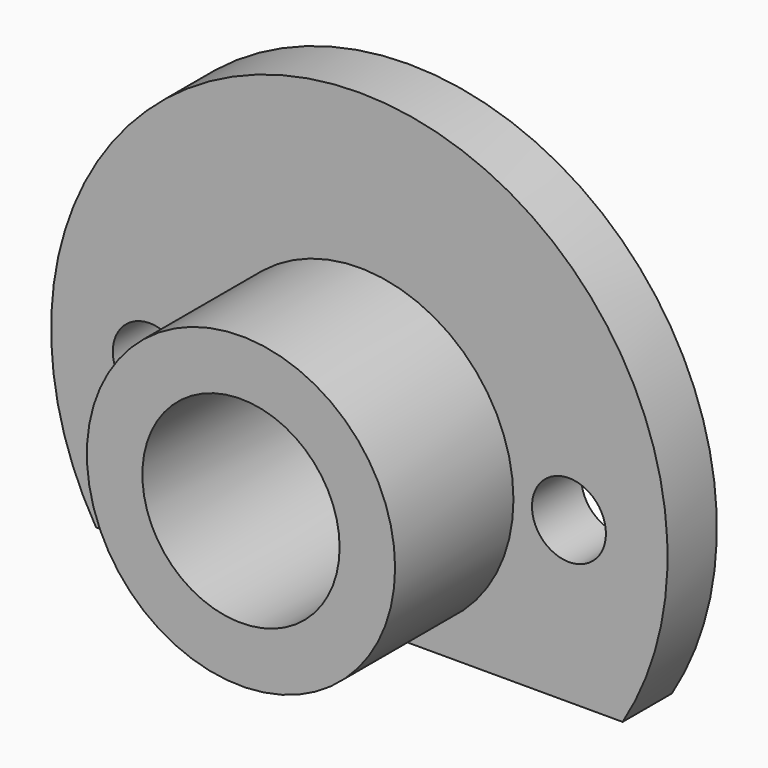
from build123d import *

# Parameters (mm, degrees)
F0_R     = 3
F0_R_2   = 8
F1_DEPTH = 5
F2_R     = 12.5
F2_R_2   = 8
F3_DEPTH = 12


with BuildPart() as f1:
    # F0 (on Front) → F1 (new body)
    with BuildSketch(Plane.XZ):
        with BuildLine():
            Line((-21.354157, -13), (21.354157, -13))
            ThreePointArc((21.354157, -13), (0, 25), (-21.354157, -13))
        make_face()
        with Locations((-17, 0)):
            Circle(F0_R, mode=Mode.SUBTRACT)
        Circle(F0_R_2, mode=Mode.SUBTRACT)
        with Locations((17, 0)):
            Circle(F0_R, mode=Mode.SUBTRACT)
    extrude(amount=F1_DEPTH)

    # F2 (on face) → F3 (join)
    with BuildSketch(Plane.XZ.offset(5)):
        Circle(F2_R)
        Circle(F2_R_2, mode=Mode.SUBTRACT)
    extrude(amount=F3_DEPTH)


solid = f1.part
